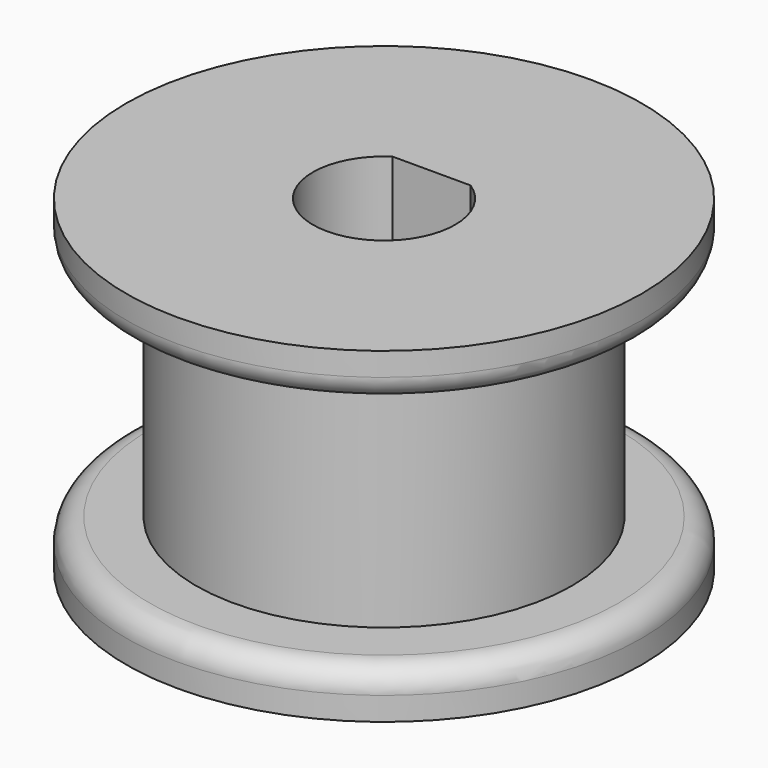
from build123d import *

# Parameters (mm, degrees)
F0_R     = 8.05
F1_DEPTH = 14
F0_R_2   = 11.05
F2_DEPTH = 14
F3_DEPTH = 12
F4_DEPTH = 2
F5_R     = 1
F6_D     = 1.5
F6_DEPTH = 2
F6_TIP   = 0.4506454643
F7_D     = 1.5
F7_DEPTH = 2
F7_TIP   = 0.4506454643


with BuildPart() as f1:
    # F0 (on Top) → F1 (new body)
    with BuildSketch(Plane.XY):
        Circle(F0_R)
        with BuildLine():
            ThreePointArc((1.6733200531, 2.55), (2.6838522837, 1.4489433802), (3.05, 0))
            ThreePointArc((3.05, 0), (2.1566756826, -2.1566756826), (0, -3.05))
            ThreePointArc((0, -3.05), (-2.9223278392, -0.8732124598), (-1.6733200531, 2.55))
            ThreePointArc((-1.6733200531, 2.55), (0, 3.05), (1.6733200531, 2.55))
        make_face(mode=Mode.SUBTRACT)
        with BuildLine():
            Line((0, 2.55), (1.6733200531, 2.55))
            ThreePointArc((1.6733200531, 2.55), (0, 3.05), (-1.6733200531, 2.55))
            Line((-1.6733200531, 2.55), (0, 2.55))
        make_face()
    extrude(amount=F1_DEPTH)

    # F0 (on Top) → F2 (join)
    with BuildSketch(Plane.XY):
        Circle(F0_R_2)
        Circle(F0_R, mode=Mode.SUBTRACT)
    extrude(amount=F2_DEPTH)

    # F0 (on Top) → F3 (cut)
    with BuildSketch(Plane.XY):
        Circle(F0_R_2)
        Circle(F0_R, mode=Mode.SUBTRACT)
    extrude(amount=F3_DEPTH, mode=Mode.SUBTRACT)

    # F0 (on Top) → F4 (join)
    with BuildSketch(Plane.XY):
        Circle(F0_R_2)
        Circle(F0_R, mode=Mode.SUBTRACT)
    extrude(amount=F4_DEPTH)

    # F5
    f5_edges = [f1.edges().sort_by_distance(p)[0] for p in [
        (-11.05, 0, 12),
        (-11.05, 0, 2),
    ]]
    fillet(f5_edges, radius=F5_R)

    # F6
    with Locations(Plane(origin=(0, 0, 0), x_dir=(1, 0, 0), z_dir=(0, 0, -1))):
        with Locations((-8.5659669712, 0)):
            Hole(F6_D / 2, depth=F6_DEPTH)
            with Locations((0, 0, -(F6_DEPTH + F6_TIP / 2))):  # 118° drill point
                Cone(0, F6_D / 2, F6_TIP, mode=Mode.SUBTRACT)

    # F7
    with Locations(Plane(origin=(0, 0, 0), x_dir=(1, 0, 0), z_dir=(0, 0, -1))):
        with Locations((-6.2731071375, -5.7528195903)):
            Hole(F7_D / 2, depth=F7_DEPTH)
            with Locations((0, 0, -(F7_DEPTH + F7_TIP / 2))):  # 118° drill point
                Cone(0, F7_D / 2, F7_TIP, mode=Mode.SUBTRACT)


solid = f1.part
